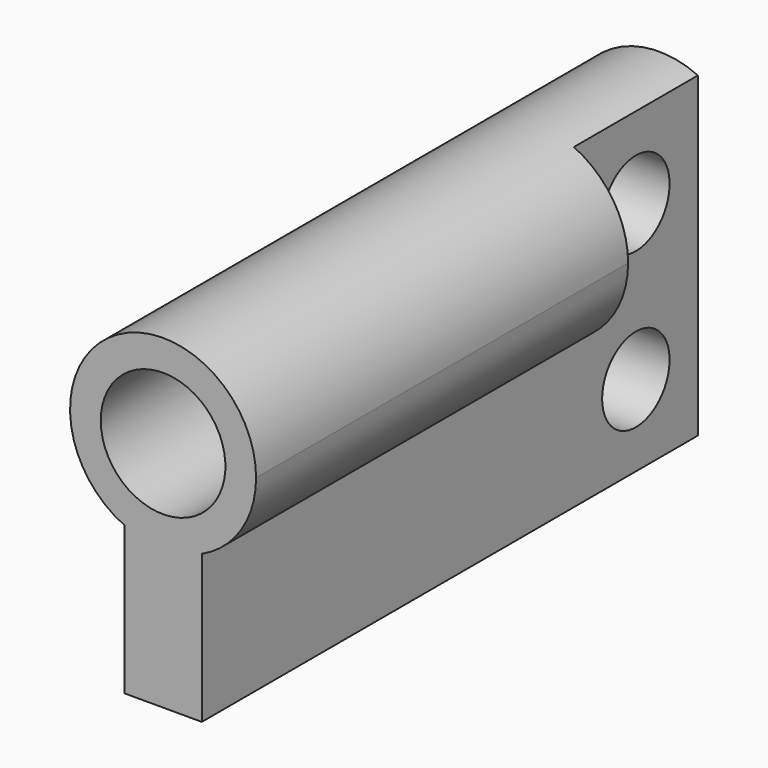
from build123d import *

# Parameters (mm, degrees)
F1_DEPTH = 25.4
F2_D     = 5.1054
F2_DEPTH = 15.875
F2_TIP   = 1.5338169022
F3_W     = 6.35
F3_H     = 7.2735160964
F4_DEPTH = 2.2235
F6_D     = 3.4544


with BuildPart() as f1:
    # F0 (on Front) → F1 (new body)
    with BuildSketch(Plane.XZ):
        with BuildLine():
            ThreePointArc((1.5875, -3.4635160964), (3.2065928179, -2.0576351717), (3.81, 0))
            ThreePointArc((3.81, 0), (-2.0576351717, 3.2065928179), (-1.5875, -3.4635160964))
            Line((-1.5875, -3.4635160964), (-1.5875, 0))
            Line((-1.5875, 0), (1.5875, 0))
            Line((1.5875, 0), (1.5875, -3.4635160964))
        make_face()
        with BuildLine():
            Line((-1.5875, 0), (-1.5875, -3.4635160964))
            ThreePointArc((-1.5875, -3.4635160964), (0, -3.81), (1.5875, -3.4635160964))
            Line((1.5875, -3.4635160964), (1.5875, 0))
            Line((1.5875, 0), (-1.5875, 0))
        make_face()
        with BuildLine():
            ThreePointArc((1.5875, -3.4635160964), (0, -3.81), (-1.5875, -3.4635160964))
            Line((-1.5875, -3.4635160964), (-1.5875, -9.525))
            Line((-1.5875, -9.525), (1.5875, -9.525))
            Line((1.5875, -9.525), (1.5875, -3.4635160964))
        make_face()
    extrude(amount=-F1_DEPTH)

    # F2
    with Locations(Plane.XZ):
        with Locations((0, 0)):
            Hole(F2_D / 2, depth=F2_DEPTH)
            with Locations((0, 0, -(F2_DEPTH + F2_TIP / 2))):  # 118° drill point
                Cone(0, F2_D / 2, F2_TIP, mode=Mode.SUBTRACT)

    # F3 (on face) → F4 (cut, through all)
    with BuildSketch(Plane.YZ.offset(1.5875)):
        with Locations((22.225, 0.1732419518)):
            Rectangle(F3_W, F3_H)
    extrude(amount=F4_DEPTH, mode=Mode.SUBTRACT)

    # F6 (through all)
    with Locations(Plane.YZ.offset(1.5875)):
        with Locations((22.225, 0.1442580482), (22.225, -6.2057419518)):
            Hole(F6_D / 2)


solid = f1.part
